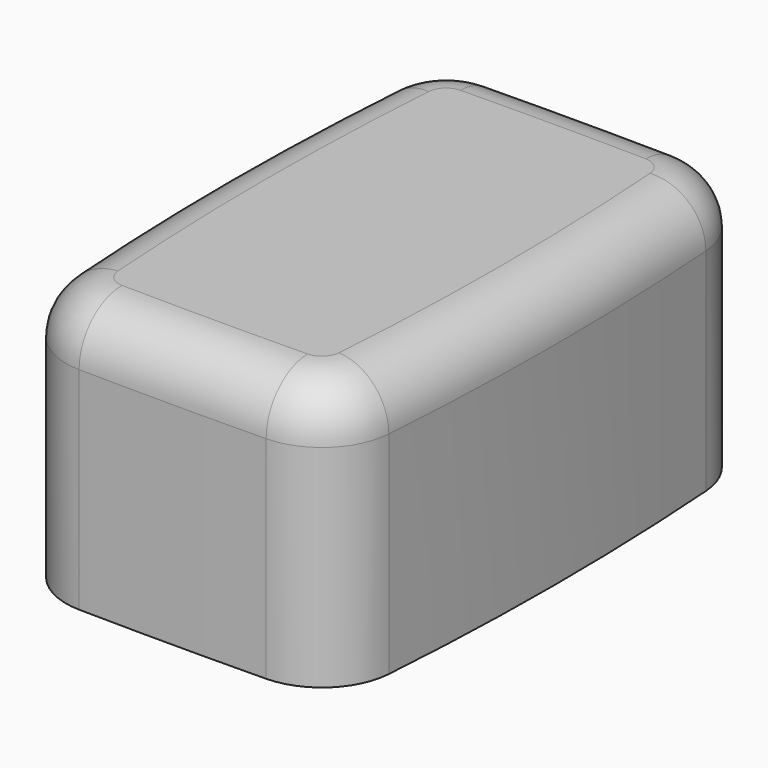
from build123d import *

# Parameters (mm, degrees)
SKETCH023_W  = 3.3
SKETCH023_H  = 2.2
PAD017_DEPTH = 2.5
PAD023_DEPTH = 5.5
FILLET_R     = 1.1


with BuildPart() as clone_button_hole_v:
    # Sketch023 → Pad017 (new body)
    with BuildSketch(Plane.XY):
        Rectangle(SKETCH023_W, SKETCH023_H)
    extrude(amount=PAD017_DEPTH)


with BuildPart() as cut_button_med_v_final:
    # Sketch044 → Pad023 (new body)
    with BuildSketch(Plane(origin=(0, 0, 0), x_dir=(0, 1, 0), z_dir=(0, 0, 1))):
        with BuildLine():
            ThreePointArc((4.124817, 3.4), (0, 3.546467), (-4.124817, 3.4))
            ThreePointArc((-4.124817, 3.4), (-5.094844, 2.941111), (-5.500001, 1.947441))
            ThreePointArc((-5.500001, 1.947441), (-5.515851, 0), (-5.5, -1.947441))
            ThreePointArc((-5.5, -1.947441), (-5.094843, -2.94111), (-4.124817, -3.4))
            ThreePointArc((-4.124817, -3.4), (0, -3.546467), (4.124817, -3.4))
            ThreePointArc((4.124817, -3.4), (5.094843, -2.94111), (5.5, -1.947441))
            ThreePointArc((5.5, -1.947441), (5.515851, 0), (5.500001, 1.947441))
            ThreePointArc((5.500001, 1.947441), (5.094844, 2.941111), (4.124817, 3.4))
        make_face()
    extrude(amount=PAD023_DEPTH)

    # Fillet
    fillet_edges = [cut_button_med_v_final.edges().sort_by_distance(p)[0] for p in [
        (-3.546467, 0, 5.5),
        (-2.941111, -5.094844, 5.5),
        (0, -5.515851, 5.5),
        (2.94111, -5.094843, 5.5),
        (3.546467, 0, 5.5),
        (2.94111, 5.094843, 5.5),
        (0, 5.515851, 5.5),
        (-2.941111, 5.094844, 5.5),
    ]]
    fillet(fillet_edges, radius=FILLET_R)

    # Cut008: cut Clone (button hole v)
    add(clone_button_hole_v.part, mode=Mode.SUBTRACT)


solid = cut_button_med_v_final.part
